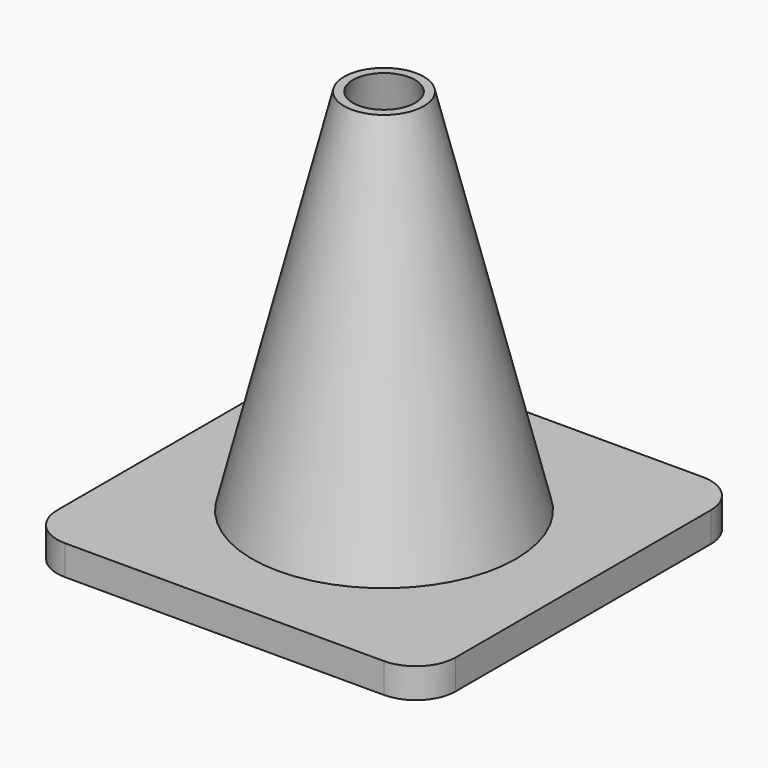
from build123d import *

# Parameters (mm, degrees)
BOX_W     = 40
BOX_H     = 40
BOX_DEPTH = 3
FILLET_R  = 4


with BuildPart() as con001:
    # Cone001 → Cone001 (revolve)
    with BuildSketch(Plane(origin=(20, 20, -0.5), x_dir=(1, 0, 0), z_dir=(0, -1, 0))):
        Polygon((0, 0), (13, 0), (3, 41), (0, 41), align=None)
    revolve(axis=Axis((20, 20, -0.5), (0, 0, 1)))


with BuildPart() as cut:
    # Cone → Cone (revolve)
    with BuildSketch(Plane(origin=(20, 20, 0), x_dir=(1, 0, 0), z_dir=(0, -1, 0))):
        Polygon((0, 0), (14, 0), (4, 40), (0, 40), align=None)
    revolve(axis=Axis((20, 20, 0), (0, 0, 1)))

    # Cut: cut Con001
    add(con001.part, mode=Mode.SUBTRACT)


with BuildPart() as fusion:
    # Box → Box (new body)
    with BuildSketch(Plane.XY):
        with Locations((20, 20)):
            Rectangle(BOX_W, BOX_H)
    extrude(amount=BOX_DEPTH)

    # Fillet
    fillet_edges = [fusion.edges().sort_by_distance(p)[0] for p in [
        (0, 0, 1.5),
        (0, 40, 1.5),
        (40, 0, 1.5),
        (40, 40, 1.5),
    ]]
    fillet(fillet_edges, radius=FILLET_R)

    # Fusion: union Cut
    add(cut.part)


solid = fusion.part
